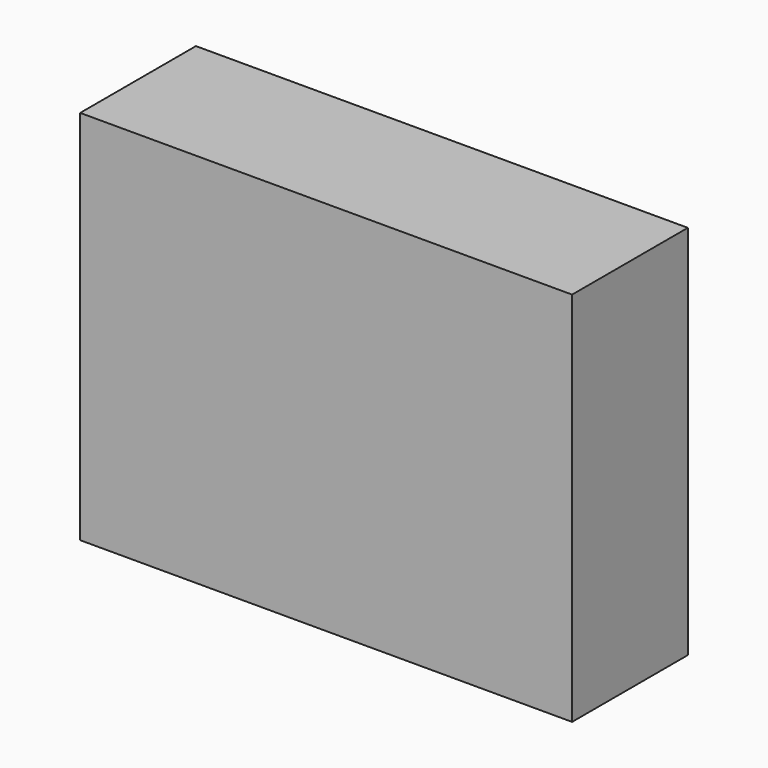
from build123d import *

# Parameters (mm, degrees)
F0_W     = 102
F0_H     = 30
F0_W_2   = 22
F0_H_2   = 26
F0_W_3   = 24
F1_DEPTH = 75
F2_W     = 102
F2_H     = 30
F3_DEPTH = 3


with BuildPart() as f1:
    # F0 (on Top) → F1 (new body)
    with BuildSketch(Plane.XY):
        with Locations((51, 13)):
            Rectangle(F0_W, F0_H)
        with Locations((13, 13)):
            Rectangle(F0_W_2, F0_H_2, mode=Mode.SUBTRACT)
        with Locations((38, 13)):
            Rectangle(F0_W_3, F0_H_2, mode=Mode.SUBTRACT)
        with Locations((64, 13)):
            Rectangle(F0_W_3, F0_H_2, mode=Mode.SUBTRACT)
        with Locations((89, 13)):
            Rectangle(F0_W_2, F0_H_2, mode=Mode.SUBTRACT)
    extrude(amount=F1_DEPTH)

    # F2 (on face) → F3 (join)
    with BuildSketch(Plane.XY.offset(75)):
        with Locations((51, 13)):
            Rectangle(F2_W, F2_H)
    extrude(amount=F3_DEPTH)


solid = f1.part
